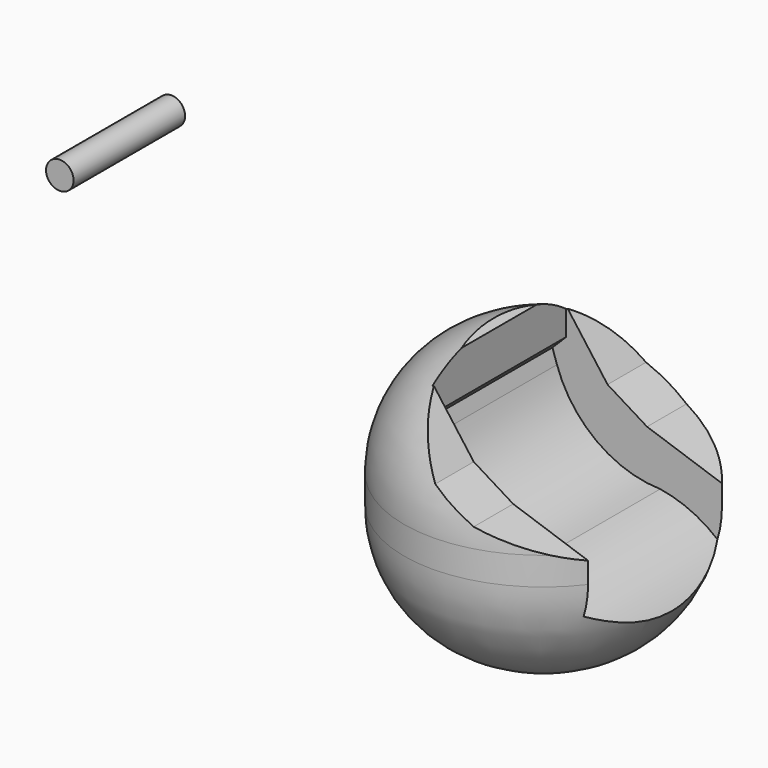
from build123d import *

# Parameters (mm, degrees)
F0_W      = 50.8
F0_H      = 50.8
F1_DEPTH  = 50.8
F2_W      = 175.3214485943
F2_H      = 101.5795171261
F3_DEPTH  = 76.2
F4_R      = 22.86
F5_R      = 2.5074956937
F6_DEPTH  = 25.4
F8_DEPTH  = 15.24
F10_DEPTH = 39.37


with BuildPart() as f1:
    # F0 (on Top) → F1 (new body)
    with BuildSketch(Plane.XY):
        with Locations((25.4, 25.4)):
            Rectangle(F0_W, F0_H)
    extrude(amount=F1_DEPTH)

    # F2 (on face) → F3 (cut)
    with BuildSketch(Plane.XY.offset(50.8)):
        with Locations((55.9516903013, 14.1031444073)):
            Rectangle(F2_W, F2_H)
        with BuildLine():
            ThreePointArc((0, 25.4), (25.4, 50.8), (50.8, 25.4))
            ThreePointArc((50.8, 25.4), (25.4, 0), (0, 25.4))
        make_face(mode=Mode.SUBTRACT)
    extrude(amount=-F3_DEPTH, mode=Mode.SUBTRACT)

    # F4
    f4_edges = [f1.edges().sort_by_distance(p)[0] for p in [
        (0, 25.4, 50.8),
        (0, 25.4, 0),
    ]]
    fillet(f4_edges, radius=F4_R)

    # F7 (on face) → F8 (cut, symmetric)
    with BuildSketch(Plane(origin=(0, 25.4, 0), x_dir=(-1, 0, 0), z_dir=(0, 1, 0))):
        with BuildLine():
            ThreePointArc((-50.8819371462, 9.5864515752), (-44.2747543771, 17.9441953778), (-34.4743542373, 22.1225805581))
            ThreePointArc((-34.4743542373, 22.1225805581), (-22.8801267648, 26.0545883635), (-15.6701616943, 35.9491929412))
            Line((-15.6701616943, 35.9491929412), (-14.838401011, 38.4369813474))
            Line((-14.838401011, 38.4369813474), (-17.3293557018, 40.9267768264))
            Line((-17.3293557018, 40.9267768264), (-17.3293557018, 48.854034394))
            Line((-17.3293557018, 48.854034394), (-14.838401011, 51.4350011945))
            Line((-14.838401011, 51.4350011945), (-53.0941970646, 56.7812882364))
            Line((-53.0941970646, 56.7812882364), (-59.1779053211, 29.3124187738))
            Line((-59.1779053211, 29.3124187738), (-60.837097466, 14.3796773627))
            Line((-60.837097466, 14.3796773627), (-50.8819371462, 9.5864515752))
        make_face()
    extrude(amount=F8_DEPTH, both=True, mode=Mode.SUBTRACT)

    # F9 (on face) → F10 (cut, symmetric)
    with BuildSketch(Plane(origin=(0, 25.4, 0), x_dir=(-1, 0, 0), z_dir=(0, 1, 0))):
        Polygon((-24.8879026622, 35.7648395002), (-17.5137091428, 45.7200035453), (-41.4798371494, 56.5969347954), (-64.339838922, 40.3737090528), (-48.3009703457, 25.8096773177), (-32.0777408779, 31.3403233886), align=None)
    extrude(amount=F10_DEPTH, both=True, mode=Mode.SUBTRACT)


with BuildPart() as f6:
    # F5 (on Front) → F6 (new body)
    with BuildSketch(Plane.XZ):
        with Locations((-42.401611805, 63.9711245894)):
            Circle(F5_R)
    extrude(amount=-F6_DEPTH)


solid = Compound([f1.part, f6.part])
